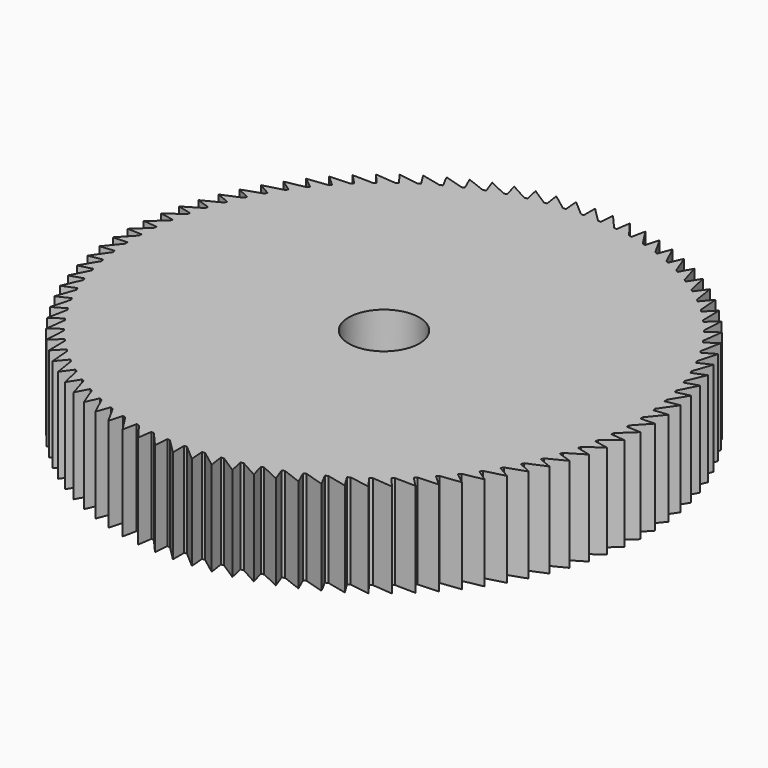
from build123d import *

# Parameters (mm, degrees)
F0_R     = 3.75
F1_DEPTH = 10


with BuildPart() as f1:
    # F0 (on Top) → F1 (new body)
    with BuildSketch(Plane.XY):
        Polygon((0, 28), (0, 26.5), (-0.304084, 26.498255), (-1.953181, 27.931793), (-1.848547, 26.435447), (-2.151768, 26.412495), (-3.896847, 27.727506), (-3.688087, 26.242104), (-3.988969, 26.198056), (-5.821527, 27.388133), (-5.50966, 25.920911), (-5.806736, 25.855982), (-7.717846, 26.915327), (-7.30439, 25.473435), (-7.596214, 25.387941), (-9.576564, 26.311393), (-9.063534, 24.901854), (-9.348683, 24.796212), (-11.388626, 25.579273), (-10.778521, 24.208955), (-11.055606, 24.083679), (-13.145204, 24.722533), (-12.440996, 23.398111), (-12.708668, 23.253812), (-14.837739, 23.745347), (-14.042861, 22.473275), (-14.299814, 22.310655), (-16.457987, 22.652476), (-15.576309, 21.43895), (-15.821293, 21.258803), (-17.998053, 21.449244), (-17.033872, 20.300178), (-17.265692, 20.10338), (-19.450434, 20.141514), (-18.408447, 19.062505), (-18.625975, 18.850015), (-20.808055, 18.735657), (-19.693338, 17.731961), (-19.895513, 17.504815), (-22.064301, 17.238521), (-20.882285, 16.315029), (-21.068123, 16.074333), (-23.213052, 15.657401), (-21.969496, 14.818612), (-22.138091, 14.565539), (-24.248711, 14), (-22.949673, 13.25), (-23.100204, 12.985783), (-25.166233, 12.274392), (-23.818042, 11.616835), (-23.949776, 11.342761), (-25.961148, 10.488985), (-24.570372, 9.927075), (-24.682666, 9.644479), (-26.629582, 8.652476), (-25.202998, 8.18895), (-25.295306, 7.89921), (-27.16828, 6.773813), (-25.712837, 6.41093), (-25.784708, 6.115456), (-27.574617, 4.862149), (-26.097405, 4.601677), (-26.148491, 4.301909), (-27.846613, 2.926797), (-26.35483, 2.770004), (-26.384881, 2.467403), (-27.982943, 0.977186), (-26.483857, 0.924837), (-26.492726, 0.620877), (-27.982943, -0.977186), (-26.483857, -0.924837), (-26.471501, -1.228675), (-27.846613, -2.926797), (-26.35483, -2.770004), (-26.32131, -3.07224), (-27.574617, -4.862149), (-26.097405, -4.601677), (-26.042884, -4.900838), (-27.16828, -6.773813), (-25.712837, -6.41093), (-25.637579, -6.70556), (-26.629582, -8.652476), (-25.202998, -8.18895), (-25.107371, -8.477613), (-25.961148, -10.488985), (-24.570372, -9.927075), (-24.454842, -10.208363), (-25.166233, -12.274392), (-23.818042, -11.616835), (-23.683172, -11.88938), (-24.248711, -14), (-22.949673, -13.25), (-22.79612, -13.512472), (-23.213052, -15.657401), (-21.969496, -14.818612), (-21.798007, -15.069734), (-22.064301, -17.238521), (-20.882285, -16.315029), (-20.693697, -16.553577), (-20.808055, -18.735657), (-19.693338, -17.731961), (-19.488569, -17.956772), (-19.450434, -20.141514), (-18.408447, -19.062505), (-18.188495, -19.272484), (-17.998053, -21.449244), (-17.033872, -20.300178), (-16.799808, -20.494303), (-16.457987, -22.652476), (-15.576309, -21.43895), (-15.329274, -21.616275), (-14.837739, -23.745347), (-14.042861, -22.473275), (-13.784058, -22.632935), (-13.145204, -24.722533), (-12.440996, -23.398111), (-12.171687, -23.53933), (-11.388626, -25.579273), (-10.778521, -24.208955), (-10.500017, -24.331043), (-9.576564, -26.311393), (-9.063534, -24.901854), (-8.777191, -25.004218), (-7.717846, -26.915327), (-7.30439, -25.473435), (-7.011604, -25.555575), (-5.821527, -27.388133), (-5.50966, -25.920911), (-5.211858, -25.982428), (-3.896847, -27.727506), (-3.688087, -26.242104), (-3.386719, -26.282696), (-1.953181, -27.931793), (-1.848547, -26.435447), (-1.545081, -26.454919), (0, -28), (0, -26.5), (0.304084, -26.498255), (1.953181, -27.931793), (1.848547, -26.435447), (2.151768, -26.412495), (3.896847, -27.727506), (3.688087, -26.242104), (3.988969, -26.198056), (5.821527, -27.388133), (5.50966, -25.920911), (5.806736, -25.855982), (7.717846, -26.915327), (7.30439, -25.473435), (7.596214, -25.387941), (9.576564, -26.311393), (9.063534, -24.901854), (9.348683, -24.796212), (11.388626, -25.579273), (10.778521, -24.208955), (11.055606, -24.083679), (13.145204, -24.722533), (12.440996, -23.398111), (12.708668, -23.253812), (14.837739, -23.745347), (14.042861, -22.473275), (14.299814, -22.310655), (16.457987, -22.652476), (15.576309, -21.43895), (15.821293, -21.258803), (17.998053, -21.449244), (17.033872, -20.300178), (17.265692, -20.10338), (19.450434, -20.141514), (18.408447, -19.062505), (18.625975, -18.850015), (20.808055, -18.735657), (19.693338, -17.731961), (19.895513, -17.504815), (22.064301, -17.238521), (20.882285, -16.315029), (21.068123, -16.074333), (23.213052, -15.657401), (21.969496, -14.818612), (22.138091, -14.565539), (24.248711, -14), (22.949673, -13.25), (23.100204, -12.985783), (25.166233, -12.274392), (23.818042, -11.616835), (23.949776, -11.342761), (25.961148, -10.488985), (24.570372, -9.927075), (24.682666, -9.644479), (26.629582, -8.652476), (25.202998, -8.18895), (25.295306, -7.89921), (27.16828, -6.773813), (25.712837, -6.41093), (25.784708, -6.115456), (27.574617, -4.862149), (26.097405, -4.601677), (26.148491, -4.301909), (27.846613, -2.926797), (26.35483, -2.770004), (26.384881, -2.467403), (27.982943, -0.977186), (26.483857, -0.924837), (26.492726, -0.620877), (27.982943, 0.977186), (26.483857, 0.924837), (26.471501, 1.228675), (27.846613, 2.926797), (26.35483, 2.770004), (26.32131, 3.07224), (27.574617, 4.862149), (26.097405, 4.601677), (26.042884, 4.900838), (27.16828, 6.773813), (25.712837, 6.41093), (25.637579, 6.70556), (26.629582, 8.652476), (25.202998, 8.18895), (25.107371, 8.477613), (25.961148, 10.488985), (24.570372, 9.927075), (24.454842, 10.208363), (25.166233, 12.274392), (23.818042, 11.616835), (23.683172, 11.88938), (24.248711, 14), (22.949673, 13.25), (22.79612, 13.512472), (23.213052, 15.657401), (21.969496, 14.818612), (21.798007, 15.069734), (22.064301, 17.238521), (20.882285, 16.315029), (20.693697, 16.553577), (20.808055, 18.735657), (19.693338, 17.731961), (19.488569, 17.956772), (19.450434, 20.141514), (18.408447, 19.062505), (18.188495, 19.272484), (17.998053, 21.449244), (17.033872, 20.300178), (16.799808, 20.494303), (16.457987, 22.652476), (15.576309, 21.43895), (15.329274, 21.616275), (14.837739, 23.745347), (14.042861, 22.473275), (13.784058, 22.632935), (13.145204, 24.722533), (12.440996, 23.398111), (12.171687, 23.53933), (11.388626, 25.579273), (10.778521, 24.208955), (10.500017, 24.331043), (9.576564, 26.311393), (9.063534, 24.901854), (8.777191, 25.004218), (7.717846, 26.915327), (7.30439, 25.473435), (7.011604, 25.555575), (5.821527, 27.388133), (5.50966, 25.920911), (5.211858, 25.982428), (3.896847, 27.727506), (3.688087, 26.242104), (3.386719, 26.282696), (1.953181, 27.931793), (1.848547, 26.435447), (1.545081, 26.454919), align=None)
        Circle(F0_R, mode=Mode.SUBTRACT)
    extrude(amount=F1_DEPTH)


solid = f1.part
